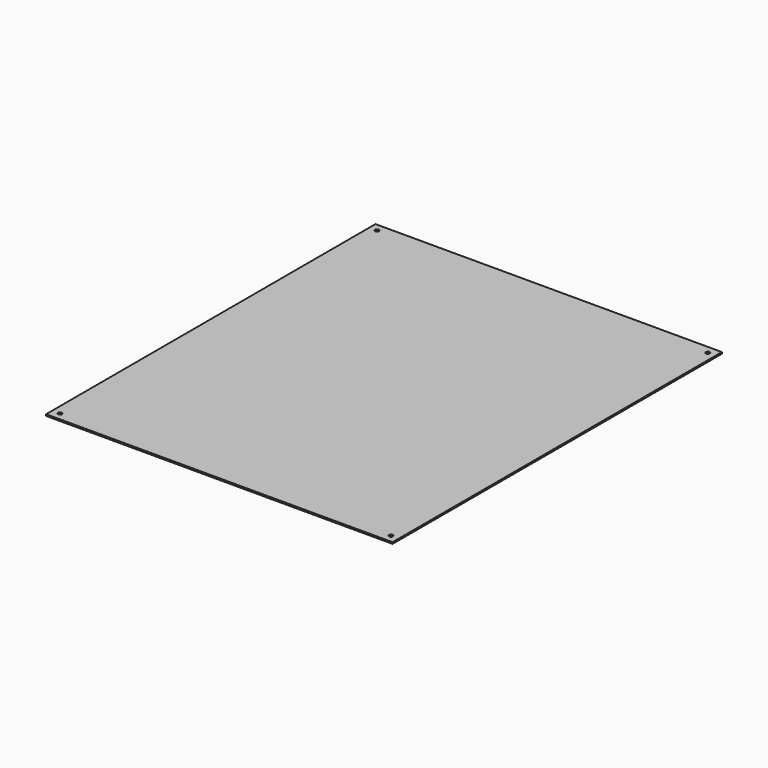
from build123d import *

# Parameters (mm, degrees)
SKETCH_W  = 446
SKETCH_H  = 530
SKETCH_R  = 2.5
PAD_DEPTH = 2


with BuildPart() as part:
    # Sketch → Pad (new body)
    with BuildSketch(Plane.XY):
        Rectangle(SKETCH_W, SKETCH_H)
        with Locations((-213, 255)):
            Circle(SKETCH_R, mode=Mode.SUBTRACT)
        with Locations((-213, -255)):
            Circle(SKETCH_R, mode=Mode.SUBTRACT)
        with Locations((213, -255)):
            Circle(SKETCH_R, mode=Mode.SUBTRACT)
        with Locations((213, 255)):
            Circle(SKETCH_R, mode=Mode.SUBTRACT)
    extrude(amount=PAD_DEPTH)


solid = part.part
